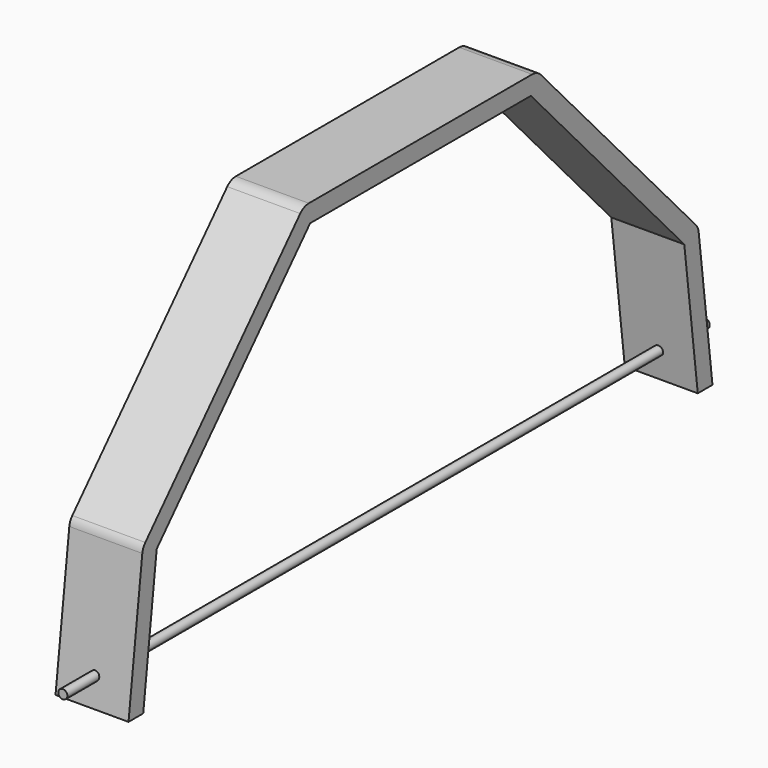
from build123d import *

# Parameters (mm, degrees)
F1_DEPTH = 12.7
F2_R     = 5.08
F3_R     = 1.5875
F4_DEPTH = 254
F5_R     = 1.5875
F6_DEPTH = 139.7


with BuildPart() as f1:
    # F0 (on Right) → F1 (new body, symmetric)
    with BuildSketch(Plane.YZ):
        Polygon((-120.803595, 50.8), (-127, 0), (-120.60294, 0), (-114.747306, 48.006249), (-48.010771, 120.650004), (0, 120.650004), (48.010771, 120.650004), (114.747306, 48.006249), (120.60294, 0), (127, 0), (120.803595, 50.8), (50.8, 127), (0, 127), (-50.8, 127), align=None)
    extrude(amount=F1_DEPTH, both=True)

    # F2
    f2_edges = [f1.edges().sort_by_distance(p)[0] for p in [
        (0, -120.803595, 50.8),
        (0, 120.803595, 50.8),
        (0, -50.8, 127),
        (0, 50.8, 127),
    ]]
    fillet(f2_edges, radius=F2_R)

    # F3 (on Front) → F4 (cut, symmetric)
    with BuildSketch(Plane.XZ):
        with Locations((0, 9.525)):
            Circle(F3_R)
    extrude(amount=F4_DEPTH, both=True, mode=Mode.SUBTRACT)

    # F5 (on Front) → F6 (join, symmetric)
    with BuildSketch(Plane.XZ):
        with Locations((0, 9.525)):
            Circle(F5_R)
    extrude(amount=F6_DEPTH, both=True)


solid = f1.part
